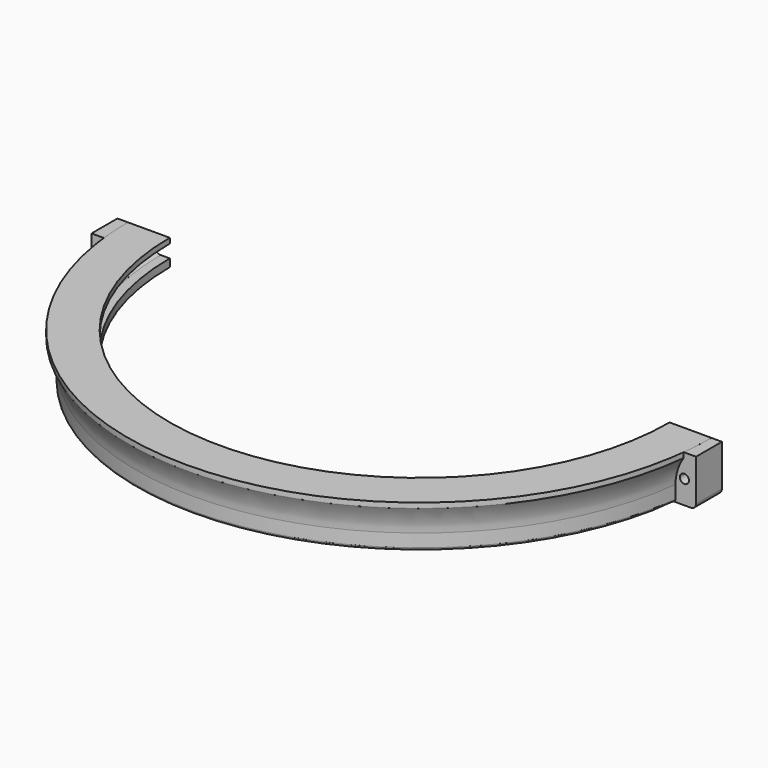
from build123d import *

# Parameters (mm, degrees)
F2_R      = 102
F3_DEPTH  = 5
F4_R      = 1
F5_W      = 9
F5_H      = 18
F5_R      = 2.5
F7_DEPTH  = 12.5
F6_W      = 9
F6_H      = 18
F6_R      = 1.75
F8_DEPTH  = 12.5
F9_W      = 250
F9_H      = 100
F10_DEPTH = 150
F11_R     = 2
F12_R     = 2


with BuildPart() as f1:
    # F0 (on Front) → F1 (revolve)
    with BuildSketch(Plane.XZ):
        with BuildLine():
            Line((-107.5, -3), (-96.5, -3))
            Line((-96.5, -3), (-96.5000625723, 0))
            Line((-96.5000625723, 0), (-96.5002087619, 7.009))
            Line((-96.5002087619, 7.009), (-112.6502087619, 7.009))
            Line((-112.6502087619, 7.009), (-112.6502087619, 5.009))
            ThreePointArc((-112.6502087619, 5.009), (-110.3061458059, 0.2465201859), (-109.5, -5))
            Line((-109.5, -5), (-109.5, -11))
            Line((-109.5, -11), (-107.5, -11))
            Line((-107.5, -11), (-107.5, -3))
        make_face()
    revolve(axis=Axis((0, 0, -0.2650997043), (0, 0, 1)))

    # F2 (on Top) → F3 (cut)
    with BuildSketch(Plane.XY):
        Circle(F2_R)
    extrude(amount=F3_DEPTH, mode=Mode.SUBTRACT)

    # F4
    f4_edges = [f1.edges().sort_by_distance(p)[0] for p in [
        (109.5, 0, -11),
    ]]
    fillet(f4_edges, radius=F4_R)

    # F5 (on Front) → F7 (join, symmetric)
    with BuildSketch(Plane.XZ):
        with Locations((-112.2, -2)):
            Rectangle(F5_W, F5_H)
        with Locations((-112.2, -2)):
            Circle(F5_R, mode=Mode.SUBTRACT)
    extrude(amount=F7_DEPTH, both=True)

    # F6 (on Front) → F8 (join, symmetric)
    with BuildSketch(Plane.XZ):
        with Locations((112.2, -2)):
            Rectangle(F6_W, F6_H)
        with Locations((112.2, -2)):
            Circle(F6_R, mode=Mode.SUBTRACT)
    extrude(amount=F8_DEPTH, both=True)

    # F9 (on Front) → F10 (cut)
    with BuildSketch(Plane.XZ):
        with Locations((0.1239156971, -32.2915658355)):
            Rectangle(F9_W, F9_H)
    extrude(amount=-F10_DEPTH, mode=Mode.SUBTRACT)

    # F11
    f11_edges = [f1.edges().sort_by_distance(p)[0] for p in [
        (0, -102, 0),
    ]]
    fillet(f11_edges, radius=F11_R)

    # F12
    f12_edges = [f1.edges().sort_by_distance(p)[0] for p in [
        (116.7, -6.25, -11),
        (-116.7, -6.25, -11),
    ]]
    fillet(f12_edges, radius=F12_R)


solid = f1.part
